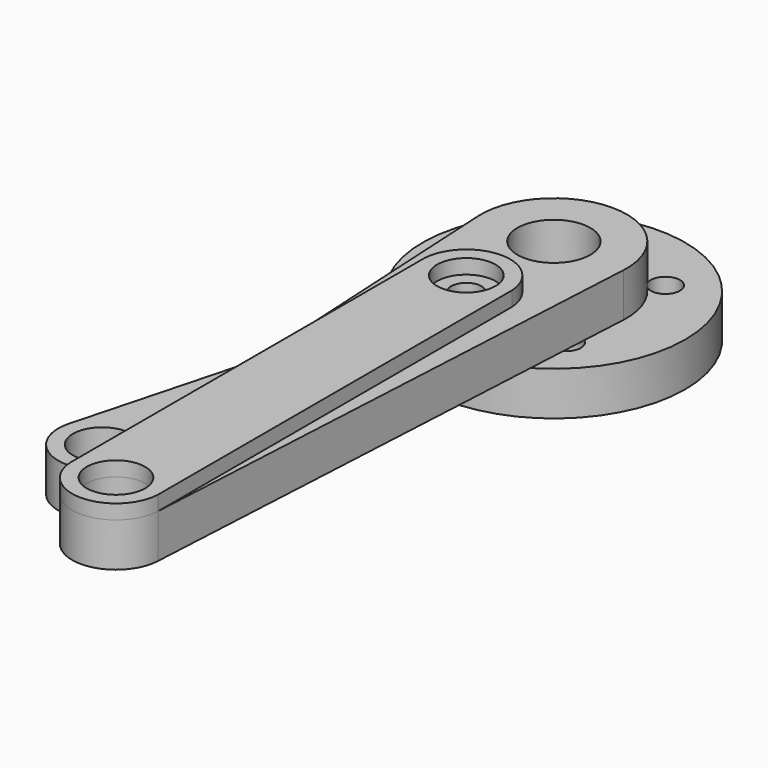
from build123d import *

# Parameters (mm, degrees)
F0_R     = 2
F0_R_2   = 1.05
F0_R_3   = 2.5
F1_DEPTH = 3
F2_R     = 2
F3_DEPTH = 1
F4_R     = 1
F4_R_2   = 1.25
F4_R_3   = 2
F5_DEPTH = 3


with BuildPart() as f1:
    # F0 (on Top) → F1 (new body)
    with BuildSketch(Plane.XY):
        with BuildLine():
            Line((2.99573, -37.66), (4.992884, -0.266667))
            ThreePointArc((4.992884, -0.266667), (0, 5), (-4.992884, -0.266667))
            Line((-4.992884, -0.266667), (-2.99573, -37.66))
            ThreePointArc((-2.99573, -37.66), (0, -40.5), (2.99573, -37.66))
        make_face()
        with Locations((0, -37.5)):
            Circle(F0_R, mode=Mode.SUBTRACT)
        with Locations((0, -7.5)):
            Circle(F0_R_2, mode=Mode.SUBTRACT)
        Circle(F0_R_3, mode=Mode.SUBTRACT)
    extrude(amount=F1_DEPTH)


with BuildPart() as f3:
    # F2 (on face) → F3 (new body)
    with BuildSketch(Plane.XY.offset(3)):
        with BuildLine():
            Line((-2.99573, -7.34), (-2.99573, -37.66))
            ThreePointArc((-2.99573, -37.66), (0, -40.5), (2.99573, -37.66))
            Line((2.99573, -37.66), (2.99573, -7.34))
            ThreePointArc((2.99573, -7.34), (0, -4.5), (-2.99573, -7.34))
        make_face()
        with Locations((0, -37.5)):
            Circle(F2_R, mode=Mode.SUBTRACT)
        with Locations((0, -7.5)):
            Circle(F2_R, mode=Mode.SUBTRACT)
    extrude(amount=F3_DEPTH)


with BuildPart() as f5:
    # F4 (on face) → F5 (new body)
    with BuildSketch(Plane(origin=(0, 0, 0), x_dir=(1, 0, 0), z_dir=(0, 0, -1))):
        with BuildLine():
            Line((-10.662349, 28.201318), (-5.09393, 7.419695))
            ThreePointArc((-5.09393, 7.419695), (2.329371, -8.693332), (0.701625, 8.97261))
            Line((0.701625, 8.97261), (-4.866794, 29.754232))
            ThreePointArc((-4.866794, 29.754232), (-8.541028, 31.875552), (-10.662349, 28.201318))
        make_face()
        with Locations((-4.242641, -4.242641)):
            Circle(F4_R, mode=Mode.SUBTRACT)
        with Locations((-4.242641, 4.242641)):
            Circle(F4_R, mode=Mode.SUBTRACT)
        Circle(F4_R_2, mode=Mode.SUBTRACT)
        with Locations((4.242641, -4.242641)):
            Circle(F4_R, mode=Mode.SUBTRACT)
        with Locations((4.242641, 4.242641)):
            Circle(F4_R, mode=Mode.SUBTRACT)
        with Locations((-7.764571, 28.977775)):
            Circle(F4_R_3, mode=Mode.SUBTRACT)
    extrude(amount=F5_DEPTH)


solid = Compound([f1.part, f3.part, f5.part])
